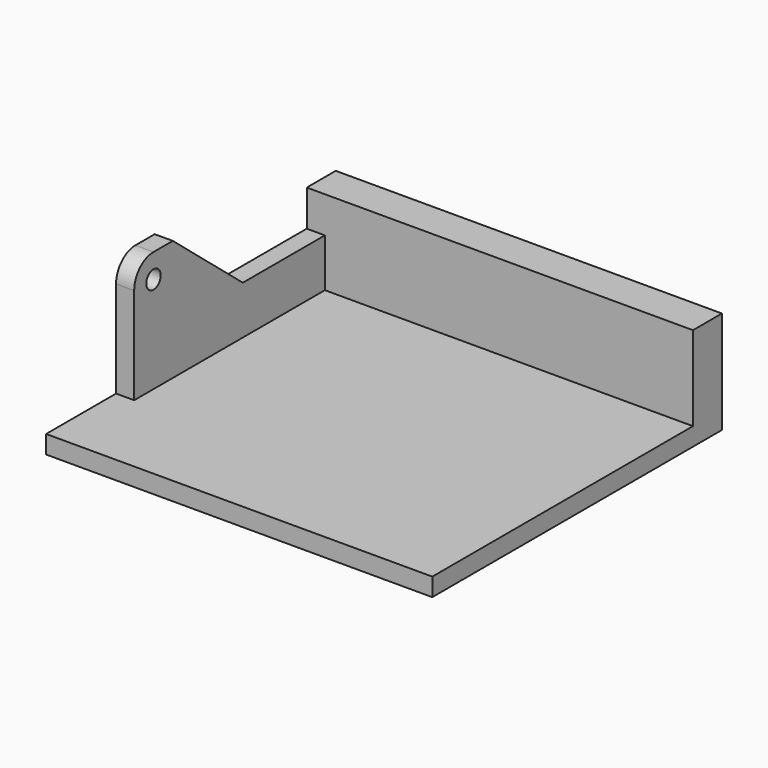
from build123d import *

# Parameters (mm, degrees)
F1_W     = 38.1
F1_H     = 88.9
F2_DEPTH = 406.4
F3_R     = 9.525
F4_DEPTH = 19.05


with BuildPart() as f2:
    # F1 (on Right) → F2 (new body)
    with BuildSketch(Plane.YZ):
        Polygon((342.9, 19.05), (0, 19.05), (0, 0), (381, 0), (381, 19.05), align=None)
        with Locations((361.95, 63.5)):
            Rectangle(F1_W, F1_H)
    extrude(amount=F2_DEPTH)


with BuildPart() as f4:
    # F3 (on Right) → F4 (new body)
    with BuildSketch(Plane.YZ):
        with BuildLine():
            ThreePointArc((117.475, 146.05), (99.514488, 138.610512), (92.075, 120.65))
            Line((92.075, 120.65), (92.075, 19.05))
            Line((92.075, 19.05), (342.9, 19.05))
            Line((342.9, 19.05), (342.9, 69.85))
            Line((342.9, 69.85), (234.95, 69.85))
            Line((234.95, 69.85), (142.875, 146.05))
            Line((142.875, 146.05), (117.475, 146.05))
        make_face()
        with Locations((117.475, 120.65)):
            Circle(F3_R, mode=Mode.SUBTRACT)
    extrude(amount=F4_DEPTH)


solid = Compound([f2.part, f4.part])
